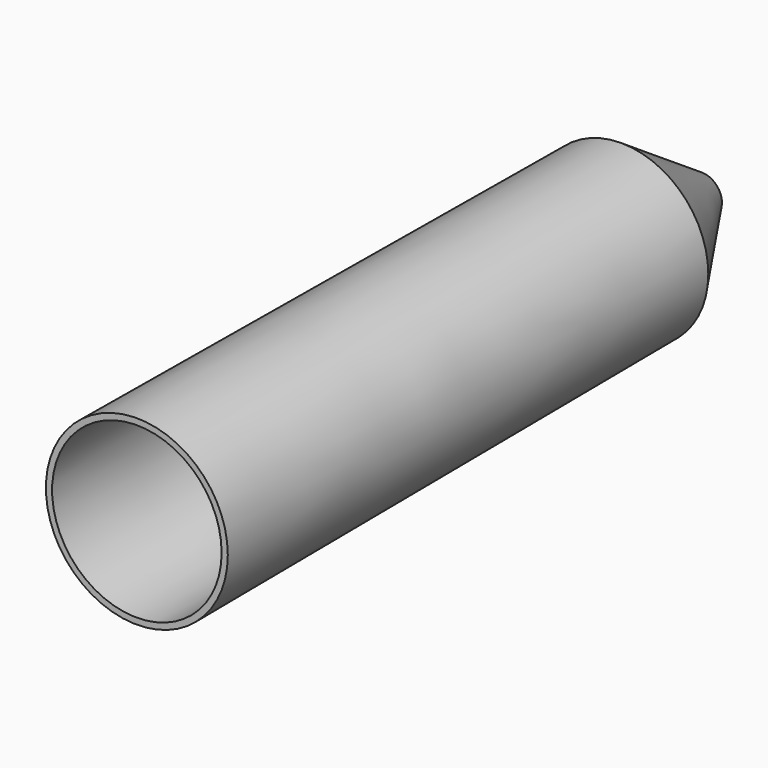
from build123d import *

# Parameters (mm, degrees)
F2_R       = 14.09
F0_R       = 14.72
F3_FACE_R  = 14.09
F7_R       = 3.265
F4_R       = 13.72
F5_R       = 13.09
F10_FACE_R = 13.09
F11_R      = 2.6


with BuildPart() as f3:
    # F2 (on offset) → F3 section 0
    with BuildSketch(Plane.XZ.offset(-98)):
        Circle(F2_R)
    # F0 (on Front) → F3 section 1
    with BuildSketch(Plane.XZ):
        Circle(F0_R)
    loft()

    # F3_face (on face) → F9 section 0
    with BuildSketch(Plane(origin=(0, 98, 0), x_dir=(-1, 0, 0), z_dir=(0, 1, 0))):
        Circle(F3_FACE_R)
    # F7 (on offset) → F9 section 1
    with BuildSketch(Plane.XZ.offset(-114.3)):
        Circle(F7_R)
    loft()

    # F4 (on Front) → F10 section 0
    with BuildSketch(Plane.XZ):
        Circle(F4_R)
    # F5 (on offset) → F10 section 1
    with BuildSketch(Plane.XZ.offset(-98)):
        Circle(F5_R)
    loft(mode=Mode.SUBTRACT)

    # F10_face (on face) → F12 section 0
    with BuildSketch(Plane.XZ.offset(-98)):
        Circle(F10_FACE_R)
    # F11 (on offset) → F12 section 1
    with BuildSketch(Plane.XZ.offset(-113.3)):
        Circle(F11_R)
    loft(mode=Mode.SUBTRACT)


solid = f3.part
